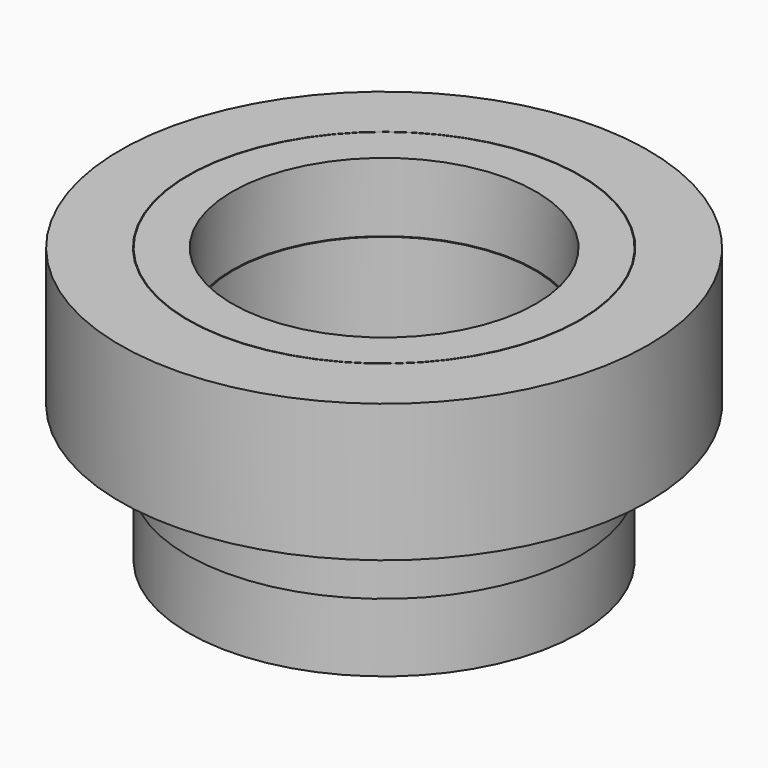
from build123d import *

# Parameters (mm, degrees)
F0_R     = 47.826909
F0_R_2   = 27.35277
F1_DEPTH = 12.5
F2_R     = 35.491808
F2_R_2   = 27.557279
F3_DEPTH = 25
F4_R     = 47.701189
F4_R_2   = 35.254813
F5_DEPTH = 12.5
F6_R     = 48.078981
F6_R_2   = 35.711938
F7_DEPTH = 25
F8_R     = 47.890456
F8_R_2   = 35.598206
F9_DEPTH = 25


with BuildPart() as f1:
    # F0 (on Top) → F1 (new body, symmetric)
    with BuildSketch(Plane.XY):
        Circle(F0_R)
        Circle(F0_R_2, mode=Mode.SUBTRACT)
    extrude(amount=F1_DEPTH, both=True)

    # F2 (on Top) → F3 (join, symmetric)
    with BuildSketch(Plane.XY):
        Circle(F2_R)
        Circle(F2_R_2, mode=Mode.SUBTRACT)
    extrude(amount=F3_DEPTH, both=True)

    # F4 (on Top) → F5 (join, symmetric)
    with BuildSketch(Plane.XY):
        Circle(F4_R)
        Circle(F4_R_2, mode=Mode.SUBTRACT)
    extrude(amount=F5_DEPTH, both=True)

    # F6 (on Top) → F7 (cut)
    with BuildSketch(Plane.XY):
        Circle(F6_R)
        Circle(F6_R_2, mode=Mode.SUBTRACT)
    extrude(amount=-F7_DEPTH, mode=Mode.SUBTRACT)

    # F8 (on Top) → F9 (join)
    with BuildSketch(Plane.XY):
        Circle(F8_R)
        Circle(F8_R_2, mode=Mode.SUBTRACT)
    extrude(amount=F9_DEPTH)


solid = f1.part
